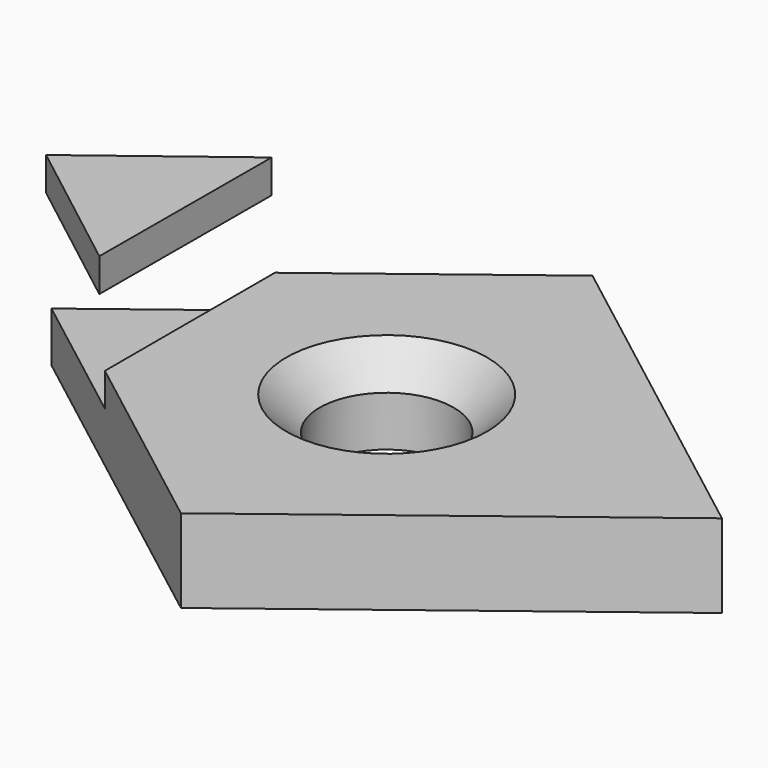
from build123d import *

# Parameters (mm, degrees)
F0_R     = 4.019544
F1_DEPTH = 5
F2_SIZE  = 2
F5_DEPTH = 25
F8_DEPTH = 2


with BuildPart() as f1:
    # F0 (on Top) → F1 (new body)
    with BuildSketch(Plane.XY):
        Polygon((0, -15.424556), (20.101673, 0), (0, 15.424556), (-20.101673, 0), align=None)
        Circle(F0_R, mode=Mode.SUBTRACT)
    extrude(amount=F1_DEPTH)

    # F2
    f2_edges = [f1.edges().sort_by_distance(p)[0] for p in [
        (-4.019544, 0, 5),
    ]]
    chamfer(f2_edges, length=F2_SIZE)

    # F4 (on offset) → F5 (cut)
    with BuildSketch(Plane.XY.offset(3)):
        Polygon((-11.799898, 6.696376), (-20.526785, 0), (-11.799898, -6.696376), align=None)
    extrude(amount=F5_DEPTH, mode=Mode.SUBTRACT)


with BuildPart() as f8:
    # F7 (on offset) → F8 (new body)
    with BuildSketch(Plane.XY.offset(11)):
        Polygon((-12.064234, -6.459591), (-12.020629, 6.402763), (-20.423705, 0), align=None)
    extrude(amount=-F8_DEPTH)


solid = Compound([f1.part, f8.part])
